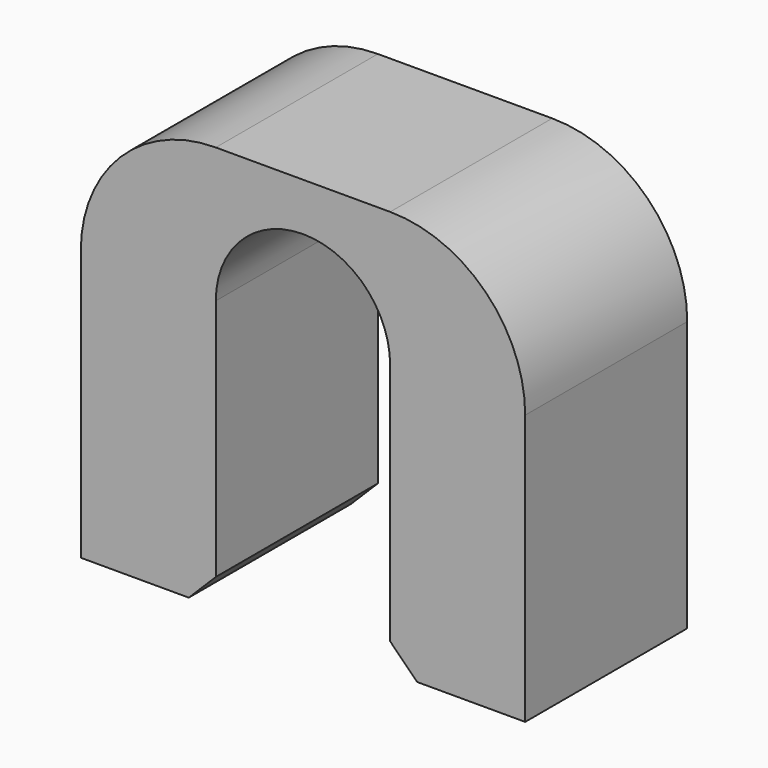
from build123d import *

# Parameters (mm, degrees)
F1_DEPTH = 9.525
F2_R     = 6.35
F3_SIZE  = 1.27


with BuildPart() as f1:
    # F0 (on Front) → F1 (new body)
    with BuildSketch(Plane.XZ):
        with BuildLine():
            Line((-4.1, -12.7), (-4.1, 0))
            ThreePointArc((-4.1, 0), (-2.899138, 2.899138), (0, 4.1))
            Line((0, 4.1), (0, 6.35))
            Line((0, 6.35), (-10.45, 6.35))
            Line((-10.45, 6.35), (-10.45, -12.7))
            Line((-10.45, -12.7), (-4.1, -12.7))
        make_face()
        with BuildLine():
            Line((0, 6.35), (0, 4.1))
            ThreePointArc((0, 4.1), (2.899138, 2.899138), (4.1, 0))
            Line((4.1, 0), (4.1, -12.7))
            Line((4.1, -12.7), (10.45, -12.7))
            Line((10.45, -12.7), (10.45, 6.35))
            Line((10.45, 6.35), (0, 6.35))
        make_face()
    extrude(amount=F1_DEPTH)

    # F2
    f2_edges = [f1.edges().sort_by_distance(p)[0] for p in [
        (-10.45, -4.7625, 6.35),
        (10.45, -4.7625, 6.35),
    ]]
    fillet(f2_edges, radius=F2_R)

    # F3
    f3_edges = [f1.edges().sort_by_distance(p)[0] for p in [
        (-4.1, -4.7625, -12.7),
        (4.1, -4.7625, -12.7),
    ]]
    chamfer(f3_edges, length=F3_SIZE)


solid = f1.part
